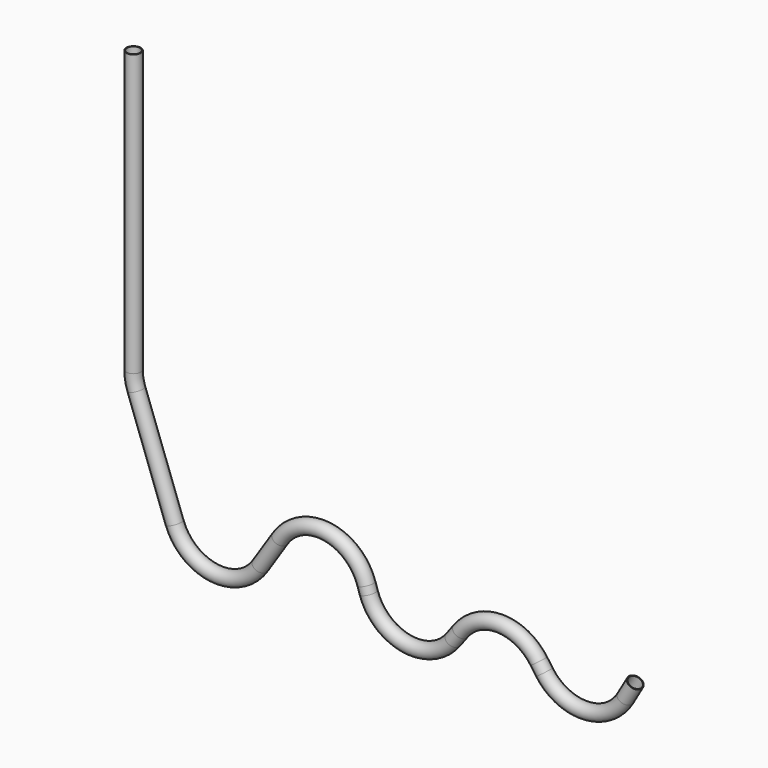
from build123d import *

# Parameters (mm, degrees)
F1_R   = 7.5
F1_R_2 = 6.75


with BuildPart() as f2:
    # F2: sweep along a path in F0
    with BuildLine(Plane.XZ) as f2_path:
        Line((0, 0), (0, -291.183651))
        ThreePointArc((0, -291.183651), (0.759612, -299.86606), (3.015369, -308.284658))
        Line((3.015369, -308.284658), (42.621281, -417.101007))
        ThreePointArc((42.621281, -417.101007), (83.866589, -449.669509), (131.452432, -427.365467))
        Line((131.452432, -427.365467), (151.940067, -396.036339))
        ThreePointArc((151.940067, -396.036339), (200.411485, -373.842643), (241.351616, -407.988567))
        Line((241.351616, -407.988567), (243.757549, -415.41324))
        ThreePointArc((243.757549, -415.41324), (283.129932, -449.324239), (331.350833, -429.96229))
        Line((331.350833, -429.96229), (339.182741, -419.499218))
        ThreePointArc((339.182741, -419.499218), (379.912632, -399.466431), (420.064309, -420.634319))
        Line((420.064309, -420.634319), (425.845417, -428.827189))
        ThreePointArc((425.845417, -428.827189), (468.970286, -449.948374), (510, -425))
        Line((510, -425), (520, -407.679492))
    # F1 (on Top) → F2 (sweep)
    with BuildSketch(Plane.XY):
        Circle(F1_R)
        Circle(F1_R_2, mode=Mode.SUBTRACT)
    sweep(path=f2_path.line)


solid = f2.part
